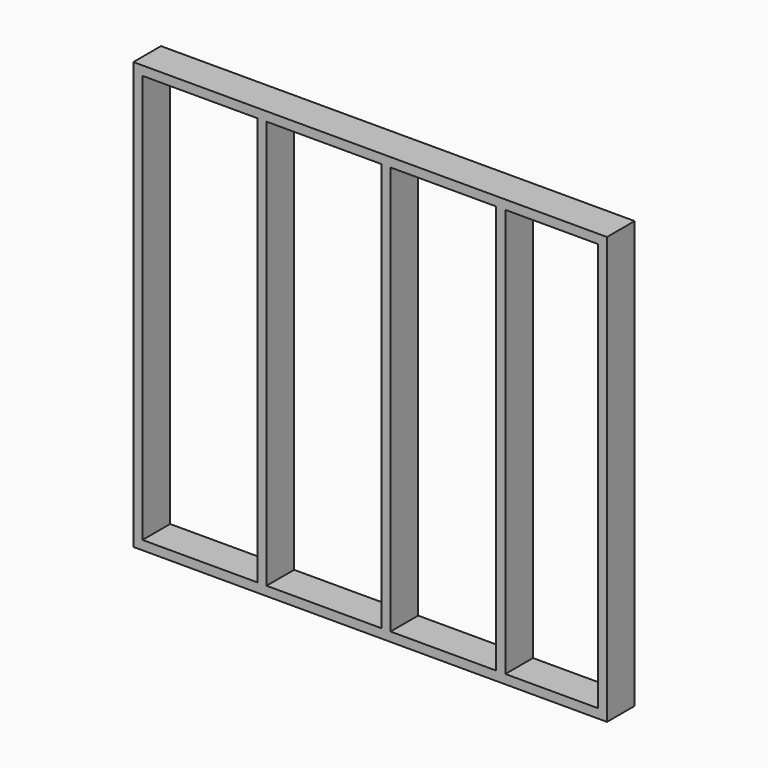
from build123d import *

# Parameters (mm, degrees)
F0_W     = 2330
F0_H     = 2100
F0_W_2   = 565
F0_H_2   = 2010
F0_W_3   = 520
F0_W_4   = 455
F1_DEPTH = 170


with BuildPart() as f1:
    # F0 (on Front) → F1 (new body)
    with BuildSketch(Plane.XZ):
        with Locations((1165, 1050)):
            Rectangle(F0_W, F0_H)
        with Locations((327.5, 1050)):
            Rectangle(F0_W_2, F0_H_2, mode=Mode.SUBTRACT)
        with Locations((937.5, 1050)):
            Rectangle(F0_W_2, F0_H_2, mode=Mode.SUBTRACT)
        with Locations((1525, 1050)):
            Rectangle(F0_W_3, F0_H_2, mode=Mode.SUBTRACT)
        with Locations((2057.5, 1050)):
            Rectangle(F0_W_4, F0_H_2, mode=Mode.SUBTRACT)
    extrude(amount=-F1_DEPTH)


solid = f1.part
